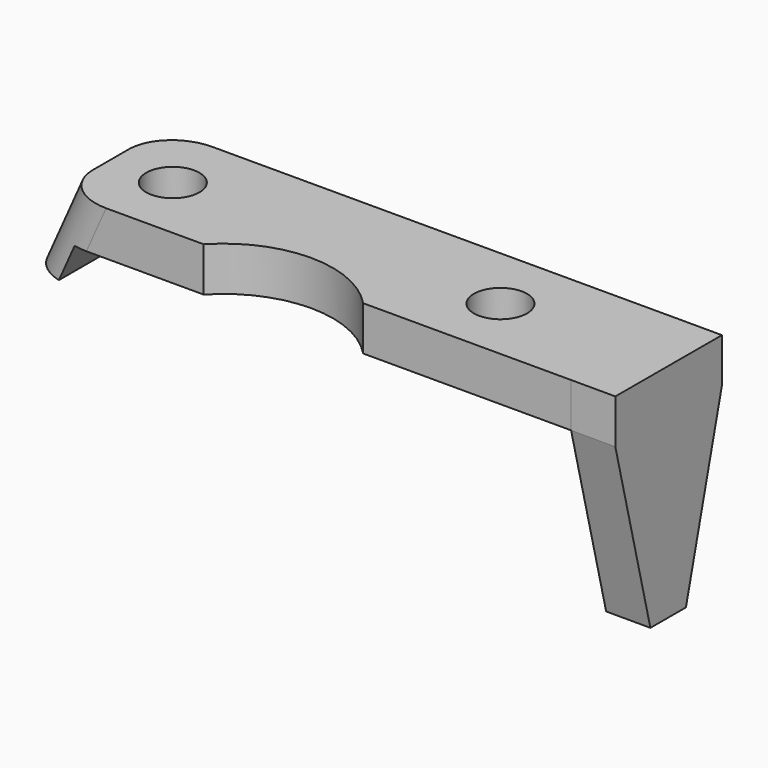
from build123d import *

# Parameters (mm, degrees)
F0_R     = 3
F1_DEPTH = 5
F2_W     = 15.0000307818
F2_H     = 5
F3_DEPTH = 5
F5_DEPTH = 15
F6_R     = 5


with BuildPart() as f1:
    # F0 (on Top) → F1 (new body)
    with BuildSketch(Plane.XY):
        with BuildLine():
            Line((32.4696116149, -7.5), (32.5, 7.5))
            Line((32.5, 7.5), (-25.481024757, 7.5))
            Line((-25.481024757, 7.5), (-25.481024757, 0))
            Line((-25.481024757, 0), (-25.481024757, -7.5))
            Line((-25.481024757, -7.5), (-9, -7.5))
            ThreePointArc((-9, -7.5), (0, -3.6042395476), (9, -7.5))
            Line((9, -7.5), (32.4696116149, -7.5))
        make_face()
        with Locations((-18.481024757, 0)):
            Circle(F0_R, mode=Mode.SUBTRACT)
        with Locations((18.5, 0)):
            Circle(F0_R, mode=Mode.SUBTRACT)
    extrude(amount=F1_DEPTH)

    # F2 (on face) → F3 (join)
    with BuildSketch(Plane(origin=(32.4846724826, -0.0658104491, 0), x_dir=(0.0020258882, 0.9999979479, 0), z_dir=(0.9999979479, -0.0020258882, 0))):
        Polygon((7.565825975, 0), (-7.4342048068, 0), (-2.5, -20), (2.5, -20), align=None)
        with Locations((0.0658105841, 2.5)):
            Rectangle(F2_W, F2_H)
    extrude(amount=F3_DEPTH)

    # F4 (on face) → F5 (join)
    with BuildSketch(Plane.XZ.offset(7.5)):
        Polygon((-29.481024757, -4), (-25.481024757, -4), (-23.7032469792, 0), (-25.481024757, 0), (-25.481024757, 5), align=None)
        Polygon((-25.481024757, 0), (-23.7032469792, 0), (-21.481024757, 5), (-25.481024757, 5), align=None)
    extrude(amount=-F5_DEPTH)

    # F6
    f6_edges = [f1.edges().sort_by_distance(p)[0] for p in [
        (-27.481025, -7.5, 0.5),
        (-27.481025, 7.5, 0.5),
    ]]
    fillet(f6_edges, radius=F6_R)


solid = f1.part
